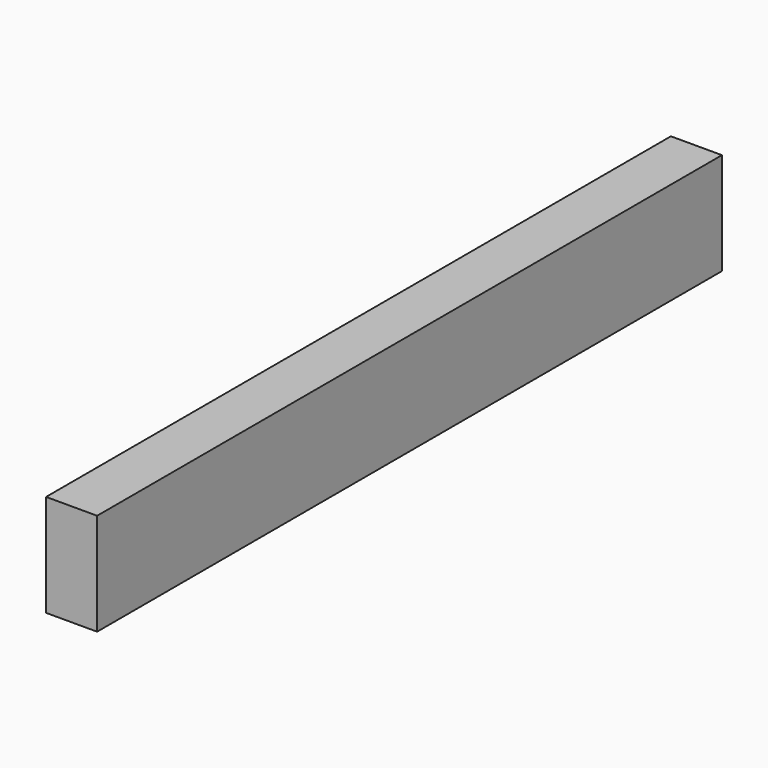
from build123d import *

# Parameters (mm, degrees)
F0_W     = 100
F0_H     = 200
F1_DEPTH = 1530
F2_R     = 10
F3_DEPTH = 100


with BuildPart() as f1:
    # F0 (on Front) → F1 (new body)
    with BuildSketch(Plane.XZ):
        with Locations((-50, 100)):
            Rectangle(F0_W, F0_H)
    extrude(amount=F1_DEPTH)

    # F2 (on face) → F3 (cut)
    with BuildSketch(Plane(origin=(0, 0, 0), x_dir=(1, 0, 0), z_dir=(0, 0, -1))):
        with Locations((-50, 1180)):
            Circle(F2_R)
        with Locations((-50, 905)):
            Circle(F2_R)
        with Locations((-50, 625)):
            Circle(F2_R)
        with Locations((-50, 350)):
            Circle(F2_R)
        with Locations((-50, 1480)):
            Circle(F2_R)
        with Locations((-50, 50)):
            Circle(F2_R)
    extrude(amount=-F3_DEPTH, mode=Mode.SUBTRACT)


solid = f1.part
